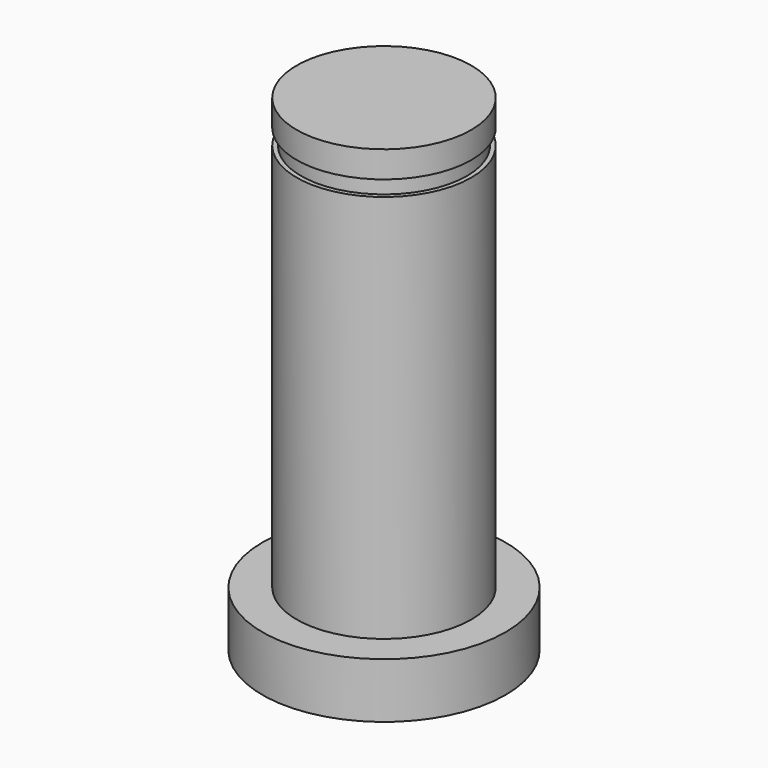
from build123d import *

# Parameters (mm, degrees)
F0_R     = 3.95
F1_DEPTH = 22
F2_R     = 5.5
F3_DEPTH = 2.5
F4_R     = 7.435927
F4_R_2   = 3.75
F5_DEPTH = 0.7


with BuildPart() as f1:
    # F0 (on Top) → F1 (new body)
    with BuildSketch(Plane.XY):
        Circle(F0_R)
    extrude(amount=F1_DEPTH)

    # F2 (on Top) → F3 (join)
    with BuildSketch(Plane.XY):
        Circle(F2_R)
    extrude(amount=F3_DEPTH)


with BuildPart() as f5:
    # F4 (on Top) → F5 (new body)
    with BuildSketch(Plane.XY):
        Circle(F4_R)
        Circle(F4_R_2, mode=Mode.SUBTRACT)
    extrude(amount=F5_DEPTH)


with BuildPart() as f5_1:
    # F6: moved
    add(f5.part.moved(Location((0, 0, 20.1))))


with BuildPart() as f1_1:
    add(f1.part)

    # F7: cut F5
    add(f5_1.part, mode=Mode.SUBTRACT)


solid = f1_1.part
